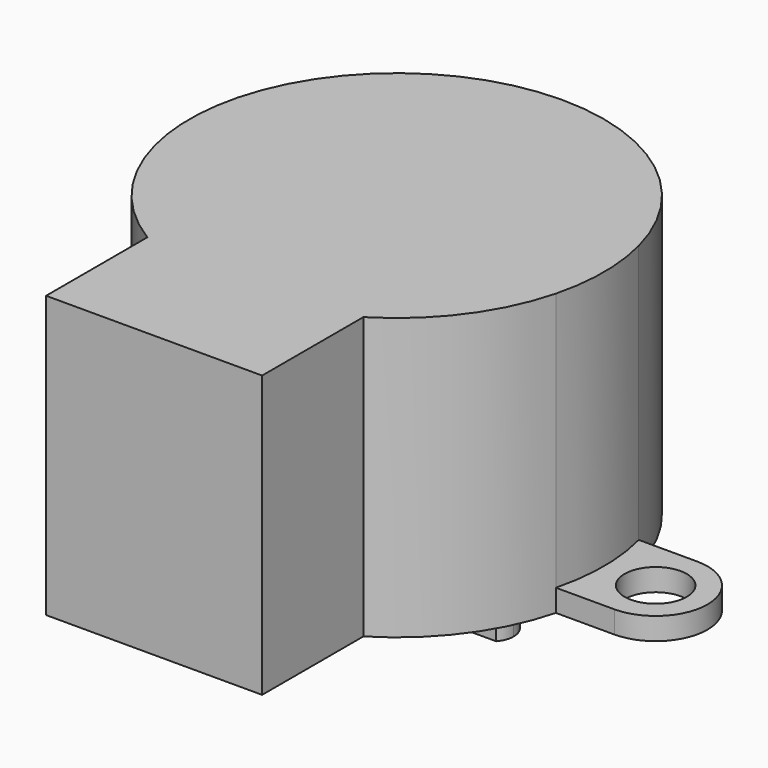
from build123d import *

# Parameters (mm, degrees)
F0_R          = 4.5
F1_DEPTH      = 19
F0_R_2        = 2.1
F2_DEPTH      = 1.5
F0_R_3        = 2.5
F3_DEPTH      = 1.5
F3_DEPTH_BACK = 19
F4_DEPTH      = 4
F4_DEPTH_BACK = 19
F5_DEPTH      = 10
F5_DEPTH_BACK = 19
F6_DEPTH      = 19
F6_DEPTH_BACK = 5


with BuildPart() as f1:
    # F0 (on Top) → F1 (new body)
    with BuildSketch(Plane.XY):
        with BuildLine():
            ThreePointArc((13.5554417117, 3.5), (0, 14), (-13.5554417117, 3.5))
            ThreePointArc((-13.5554417117, 3.5), (-14, 0), (-13.5554417117, -3.5))
            ThreePointArc((-13.5554417117, -3.5), (-11.250406053, -8.3323684294), (-7.3, -11.9461290802))
            Line((-7.3, -11.9461290802), (-7.3, -20.5))
            Line((-7.3, -20.5), (7.3, -20.5))
            Line((7.3, -20.5), (7.3, -11.9461290802))
            ThreePointArc((7.3, -11.9461290802), (11.250406053, -8.3323684294), (13.5554417117, -3.5))
            ThreePointArc((13.5554417117, -3.5), (14, 0), (13.5554417117, 3.5))
        make_face()
        with Locations((0, 8)):
            Circle(F0_R, mode=Mode.SUBTRACT)
    extrude(amount=F1_DEPTH)

    # F0 (on Top) → F2 (join)
    with BuildSketch(Plane.XY):
        with BuildLine():
            Line((-13.5554417117, 3.5), (-17.5, 3.5))
            ThreePointArc((-17.5, 3.5), (-21, 0), (-17.5, -3.5))
            Line((-17.5, -3.5), (-13.5554417117, -3.5))
            ThreePointArc((-13.5554417117, -3.5), (-14, 0), (-13.5554417117, 3.5))
        make_face()
        with Locations((-17.5, 0)):
            Circle(F0_R_2, mode=Mode.SUBTRACT)
        with BuildLine():
            Line((17.5, 3.5), (13.5554417117, 3.5))
            ThreePointArc((13.5554417117, 3.5), (14, 0), (13.5554417117, -3.5))
            Line((13.5554417117, -3.5), (17.5, -3.5))
            ThreePointArc((17.5, -3.5), (21, 0), (17.5, 3.5))
        make_face()
        with Locations((17.5, 0)):
            Circle(F0_R_2, mode=Mode.SUBTRACT)
    extrude(amount=F2_DEPTH)

    # F0 (on Top) → F3 (join, two sides)
    with BuildSketch(Plane.XY) as f3_sk:
        with Locations((0, 8)):
            Circle(F0_R)
        with Locations((0, 8)):
            Circle(F0_R_3, mode=Mode.SUBTRACT)
    extrude(amount=-F3_DEPTH)
    extrude(f3_sk.sketch, amount=F3_DEPTH_BACK)

    # F0 (on Top) → F4 (join, two sides)
    with BuildSketch(Plane.XY) as f4_sk:
        with Locations((0, 8)):
            Circle(F0_R_3)
        with BuildLine():
            ThreePointArc((1.1180339887, 9), (1.4012585384, 8.5352331347), (1.5, 8))
            ThreePointArc((1.5, 8), (1.4012585384, 7.4647668653), (1.1180339887, 7))
            ThreePointArc((1.1180339887, 7), (0, 6.5), (-1.1180339887, 7))
            ThreePointArc((-1.1180339887, 7), (-1.5, 8), (-1.1180339887, 9))
            ThreePointArc((-1.1180339887, 9), (0, 9.5), (1.1180339887, 9))
        make_face(mode=Mode.SUBTRACT)
    extrude(amount=-F4_DEPTH)
    extrude(f4_sk.sketch, amount=F4_DEPTH_BACK)

    # F0 (on Top) → F5 (join, two sides)
    with BuildSketch(Plane.XY) as f5_sk:
        with BuildLine():
            ThreePointArc((1.1180339887, 7), (1.4012585384, 7.4647668653), (1.5, 8))
            ThreePointArc((1.5, 8), (1.4012585384, 8.5352331347), (1.1180339887, 9))
            Line((1.1180339887, 9), (-1.1180339887, 9))
            ThreePointArc((-1.1180339887, 9), (-1.5, 8), (-1.1180339887, 7))
            Line((-1.1180339887, 7), (1.1180339887, 7))
        make_face()
    extrude(amount=-F5_DEPTH)
    extrude(f5_sk.sketch, amount=F5_DEPTH_BACK)

    # F0 (on Top) → F6 (join, two sides)
    with BuildSketch(Plane.XY) as f6_sk:
        with BuildLine():
            ThreePointArc((-1.1180339887, 7), (0, 6.5), (1.1180339887, 7))
            Line((1.1180339887, 7), (-1.1180339887, 7))
        make_face()
        with BuildLine():
            Line((-1.1180339887, 9), (1.1180339887, 9))
            ThreePointArc((1.1180339887, 9), (0, 9.5), (-1.1180339887, 9))
        make_face()
    extrude(amount=F6_DEPTH)
    extrude(f6_sk.sketch, amount=-F6_DEPTH_BACK)


solid = f1.part
